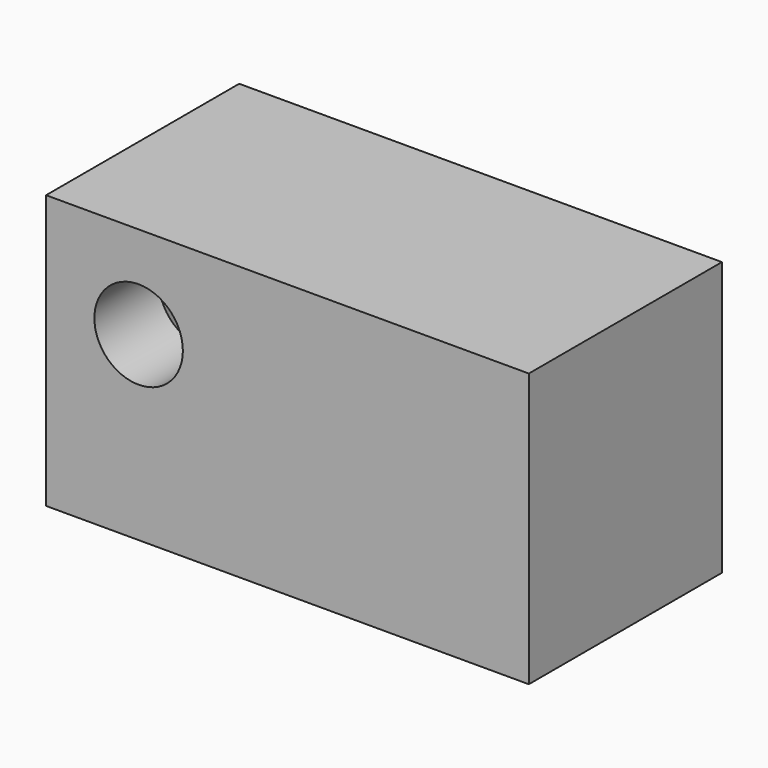
from build123d import *

# Parameters (mm, degrees)
F0_W          = 12
F0_H          = 6.8
F0_W_2        = 9.6
F0_H_2        = 4.4
F1_DEPTH      = 4
F1_DEPTH_BACK = 2
F3_W          = 0.8
F3_H          = 4
F2_W          = 0.8
F2_H          = 4
F4_DEPTH      = 0.6
F5_W          = 9.6
F5_H          = 4.4
F6_DEPTH      = 2
F7_R          = 1.1
F8_DEPTH      = 12.5


with BuildPart() as f1:
    # F0 (on Front) → F1 (new body, two sides)
    with BuildSketch(Plane.XZ) as f1_sk:
        with Locations((4.8, 2.2)):
            Rectangle(F0_W, F0_H)
        with Locations((4.8, 2.2)):
            Rectangle(F0_W_2, F0_H_2, mode=Mode.SUBTRACT)
    extrude(amount=-F1_DEPTH)
    extrude(f1_sk.sketch, amount=F1_DEPTH_BACK)

    # F3 (on face) + F2 (on face) → F4 (cut)
    with BuildSketch(Plane.XY):
        with Locations((0.4, 2)):
            Rectangle(F3_W, F3_H)
    with BuildSketch(Plane.XY):
        with Locations((9.2, 2)):
            Rectangle(F2_W, F2_H)
    extrude(amount=-F4_DEPTH, mode=Mode.SUBTRACT)

    # F5 (on Front) → F6 (join)
    with BuildSketch(Plane.XZ):
        with Locations((4.8, 2.2)):
            Rectangle(F5_W, F5_H)
    extrude(amount=F6_DEPTH)

    # F7 (on Front) → F8 (cut, symmetric)
    with BuildSketch(Plane.XZ):
        with Locations((1.1, 3.3)):
            Circle(F7_R)
    extrude(amount=F8_DEPTH, both=True, mode=Mode.SUBTRACT)


solid = f1.part
